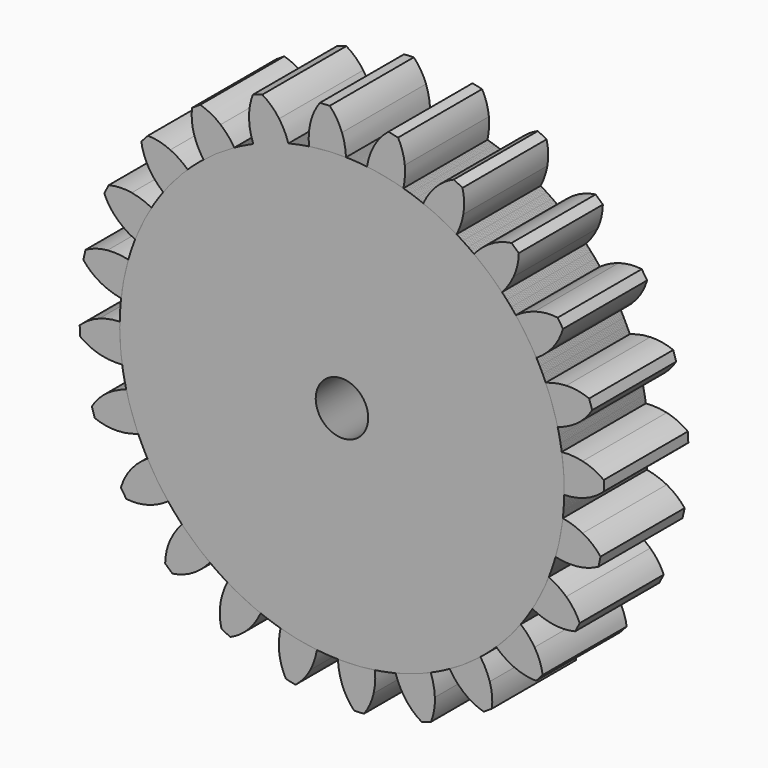
from build123d import *

# Parameters (mm, degrees)
F0_R     = 6.35
F1_DEPTH = 25.4
F2_COUNT = 24
F2_ANGLE = 345


with BuildPart() as f1:
    # F0 (on Front) → F1 (new body)
    with BuildSketch(Plane.XZ):
        with BuildLine():
            ThreePointArc((-7.975719, 53.125641), (-35.053404, -40.708779), (53.721, 0))
            ThreePointArc((53.721, 0), (38.329016, 37.640833), (0.973198, 53.712184))
            ThreePointArc((0.973198, 53.712184), (-3.513522, 53.605979), (-7.975719, 53.125641))
        make_face()
        Circle(F0_R, mode=Mode.SUBTRACT)
        with BuildLine():
            ThreePointArc((-7.975719, 53.125641), (-3.513522, 53.605979), (0.973198, 53.712184))
            ThreePointArc((0.973198, 53.712184), (0.683255, 56.231664), (0, 58.674))
            ThreePointArc((0, 58.674), (-1.231154, 61.186867), (-2.95329, 63.392425))
            ThreePointArc((-2.95329, 63.392425), (-4.134489, 63.336044), (-5.315565, 63.277127))
            ThreePointArc((-5.315565, 63.277127), (-6.755106, 60.847612), (-7.658494, 58.172036))
            ThreePointArc((-7.658494, 58.172036), (-8.017115, 55.661411), (-7.975719, 53.125641))
        make_face()
    extrude(amount=F1_DEPTH)


with BuildPart() as f2_1:
    # F2: instance of F1
    add(f1.part.rotate(Axis((0, 0, 0), (0, 1, 0)), 1 * F2_ANGLE / (F2_COUNT - 1)))


with BuildPart() as f2_2:
    # F2: instance of F1
    add(f1.part.rotate(Axis((0, 0, 0), (0, 1, 0)), 2 * F2_ANGLE / (F2_COUNT - 1)))


with BuildPart() as f2_3:
    # F2: instance of F1
    add(f1.part.rotate(Axis((0, 0, 0), (0, 1, 0)), 3 * F2_ANGLE / (F2_COUNT - 1)))


with BuildPart() as f2_4:
    # F2: instance of F1
    add(f1.part.rotate(Axis((0, 0, 0), (0, 1, 0)), 4 * F2_ANGLE / (F2_COUNT - 1)))


with BuildPart() as f2_5:
    # F2: instance of F1
    add(f1.part.rotate(Axis((0, 0, 0), (0, 1, 0)), 5 * F2_ANGLE / (F2_COUNT - 1)))


with BuildPart() as f2_6:
    # F2: instance of F1
    add(f1.part.rotate(Axis((0, 0, 0), (0, 1, 0)), 6 * F2_ANGLE / (F2_COUNT - 1)))


with BuildPart() as f2_7:
    # F2: instance of F1
    add(f1.part.rotate(Axis((0, 0, 0), (0, 1, 0)), 7 * F2_ANGLE / (F2_COUNT - 1)))


with BuildPart() as f2_8:
    # F2: instance of F1
    add(f1.part.rotate(Axis((0, 0, 0), (0, 1, 0)), 8 * F2_ANGLE / (F2_COUNT - 1)))


with BuildPart() as f2_9:
    # F2: instance of F1
    add(f1.part.rotate(Axis((0, 0, 0), (0, 1, 0)), 9 * F2_ANGLE / (F2_COUNT - 1)))


with BuildPart() as f2_10:
    # F2: instance of F1
    add(f1.part.rotate(Axis((0, 0, 0), (0, 1, 0)), 10 * F2_ANGLE / (F2_COUNT - 1)))


with BuildPart() as f2_11:
    # F2: instance of F1
    add(f1.part.rotate(Axis((0, 0, 0), (0, 1, 0)), 11 * F2_ANGLE / (F2_COUNT - 1)))


with BuildPart() as f2_12:
    # F2: instance of F1
    add(f1.part.rotate(Axis((0, 0, 0), (0, 1, 0)), 12 * F2_ANGLE / (F2_COUNT - 1)))


with BuildPart() as f2_13:
    # F2: instance of F1
    add(f1.part.rotate(Axis((0, 0, 0), (0, 1, 0)), 13 * F2_ANGLE / (F2_COUNT - 1)))


with BuildPart() as f2_14:
    # F2: instance of F1
    add(f1.part.rotate(Axis((0, 0, 0), (0, 1, 0)), 14 * F2_ANGLE / (F2_COUNT - 1)))


with BuildPart() as f2_15:
    # F2: instance of F1
    add(f1.part.rotate(Axis((0, 0, 0), (0, 1, 0)), 15 * F2_ANGLE / (F2_COUNT - 1)))


with BuildPart() as f2_16:
    # F2: instance of F1
    add(f1.part.rotate(Axis((0, 0, 0), (0, 1, 0)), 16 * F2_ANGLE / (F2_COUNT - 1)))


with BuildPart() as f2_17:
    # F2: instance of F1
    add(f1.part.rotate(Axis((0, 0, 0), (0, 1, 0)), 17 * F2_ANGLE / (F2_COUNT - 1)))


with BuildPart() as f2_18:
    # F2: instance of F1
    add(f1.part.rotate(Axis((0, 0, 0), (0, 1, 0)), 18 * F2_ANGLE / (F2_COUNT - 1)))


with BuildPart() as f2_19:
    # F2: instance of F1
    add(f1.part.rotate(Axis((0, 0, 0), (0, 1, 0)), 19 * F2_ANGLE / (F2_COUNT - 1)))


with BuildPart() as f2_20:
    # F2: instance of F1
    add(f1.part.rotate(Axis((0, 0, 0), (0, 1, 0)), 20 * F2_ANGLE / (F2_COUNT - 1)))


with BuildPart() as f2_21:
    # F2: instance of F1
    add(f1.part.rotate(Axis((0, 0, 0), (0, 1, 0)), 21 * F2_ANGLE / (F2_COUNT - 1)))


with BuildPart() as f2_22:
    # F2: instance of F1
    add(f1.part.rotate(Axis((0, 0, 0), (0, 1, 0)), 22 * F2_ANGLE / (F2_COUNT - 1)))


with BuildPart() as f2_23:
    # F2: instance of F1
    add(f1.part.rotate(Axis((0, 0, 0), (0, 1, 0)), 23 * F2_ANGLE / (F2_COUNT - 1)))


solid = Compound([f1.part, f2_1.part, f2_2.part, f2_3.part, f2_4.part, f2_5.part, f2_6.part, f2_7.part, f2_8.part, f2_9.part, f2_10.part, f2_11.part, f2_12.part, f2_13.part, f2_14.part, f2_15.part, f2_16.part, f2_17.part, f2_18.part, f2_19.part, f2_20.part, f2_21.part, f2_22.part, f2_23.part])
